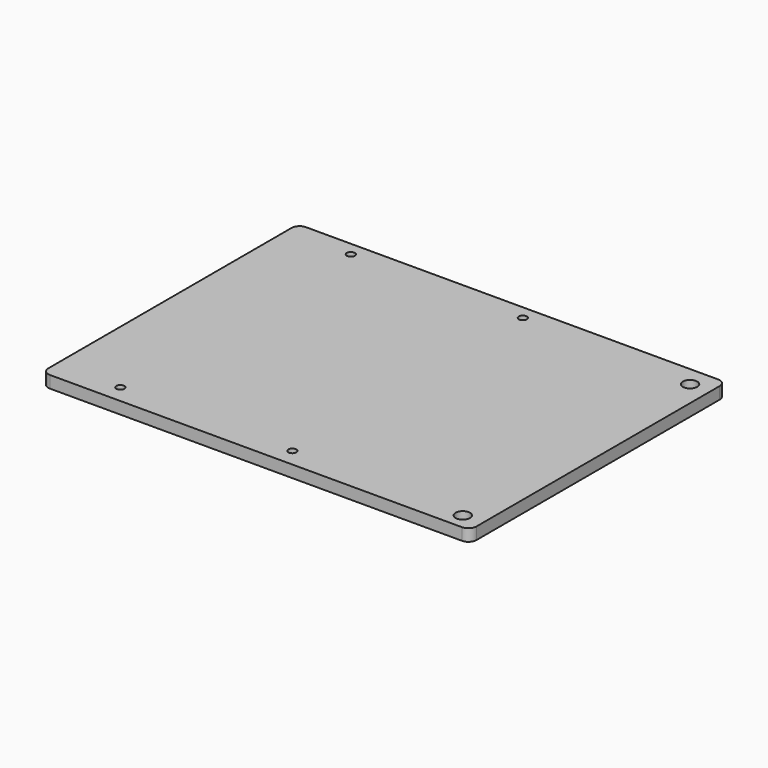
from build123d import *

# Parameters (mm, degrees)
CYLINDER003_R     = 1.8
CYLINDER003_DEPTH = 40
ARRAY004_Y_COUNT  = 2
ARRAY004_Y_PITCH  = 71
CYLINDER002_R     = 1
CYLINDER002_DEPTH = 100
ARRAY003_X_COUNT  = 2
ARRAY003_X_PITCH  = 43
ARRAY003_Y_COUNT  = 2
ARRAY003_Y_PITCH  = 72
BOX004_W          = 107
BOX004_H          = 80
BOX004_DEPTH      = 3
FILLET001_R       = 2


with BuildPart() as body_corners:
    # Cylinder003 → Cylinder003 (new body)
    with BuildSketch(Plane(origin=(99, -4.5, -15), x_dir=(1, 0, 0), z_dir=(0, 0, 1))):
        Circle(CYLINDER003_R)
    extrude(amount=CYLINDER003_DEPTH)

    # Array004 Y: Body corners ×2


with BuildPart() as body_corners_1:
    add(body_corners.part)
    with Locations(*[(0, i * ARRAY004_Y_PITCH, 0) for i in range(1, ARRAY004_Y_COUNT)]):
        add(body_corners.part)


with BuildPart() as fusion002:
    # Cylinder002 → Cylinder002 (new body)
    with BuildSketch(Plane(origin=(13, -4, -15), x_dir=(1, 0, 0), z_dir=(0, 0, 1))):
        Circle(CYLINDER002_R)
    extrude(amount=CYLINDER002_DEPTH)

    # Array003 X: Fusion002 ×2


with BuildPart() as fusion002_1:
    add(fusion002.part)
    with Locations(*[(i * ARRAY003_X_PITCH, 0, 0) for i in range(1, ARRAY003_X_COUNT)]):
        add(fusion002.part)

    # Array003 Y: Fusion002 ×2


with BuildPart() as fusion002_2:
    add(fusion002_1.part)
    with Locations(*[(0, i * ARRAY003_Y_PITCH, 0) for i in range(1, ARRAY003_Y_COUNT)]):
        add(fusion002_1.part)

    # Fusion002: union Body corners
    add(body_corners_1.part)


with BuildPart() as body006:
    # Box004 → Box004 (new body)
    with BuildSketch(Plane(origin=(-3, -8.5, -3), x_dir=(1, 0, 0), z_dir=(0, 0, 1))):
        with Locations((53.5, 40)):
            Rectangle(BOX004_W, BOX004_H)
    extrude(amount=BOX004_DEPTH)

    # Fillet001
    fillet001_edges = [body006.edges().sort_by_distance(p)[0] for p in [
        (-3, -8.5, -1.5),
        (-3, 71.5, -1.5),
        (104, -8.5, -1.5),
        (104, 71.5, -1.5),
    ]]
    fillet(fillet001_edges, radius=FILLET001_R)

    # Cut002: cut Fusion002
    add(fusion002_2.part, mode=Mode.SUBTRACT)


solid = body006.part
